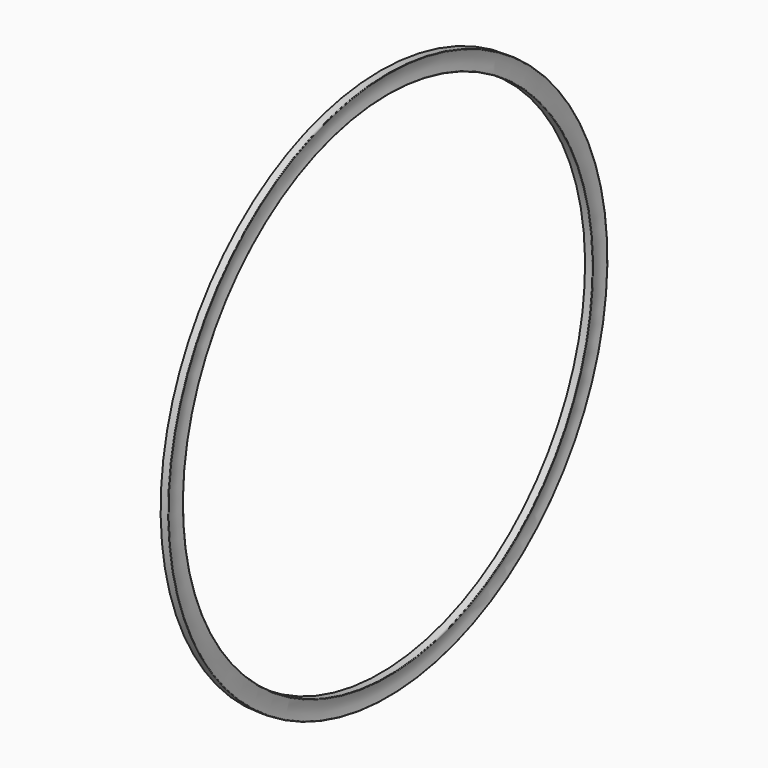
from build123d import *


with BuildPart() as f1:
    # F0 (on Front) → F1 (revolve)
    with BuildSketch(Plane.XZ):
        with BuildLine():
            ThreePointArc((-0.034799, 44.248092), (-0.045264, 44.31675), (-0.107085, 44.3484))
            Line((-0.107085, 44.3484), (-1.277829, 44.3484))
            Line((-1.277829, 44.3484), (-1.277829, 41.3512))
            Line((-1.277829, 41.3512), (-0.107085, 41.3512))
            ThreePointArc((-0.107085, 41.3512), (-0.045264, 41.38285), (-0.034799, 41.451508))
            ThreePointArc((-0.034799, 41.451508), (-0.261829, 42.8498), (-0.034799, 44.248092))
        make_face()
    revolve(axis=Axis((-3.079263, 0, 0), (-1, 0, 0)))


solid = f1.part
